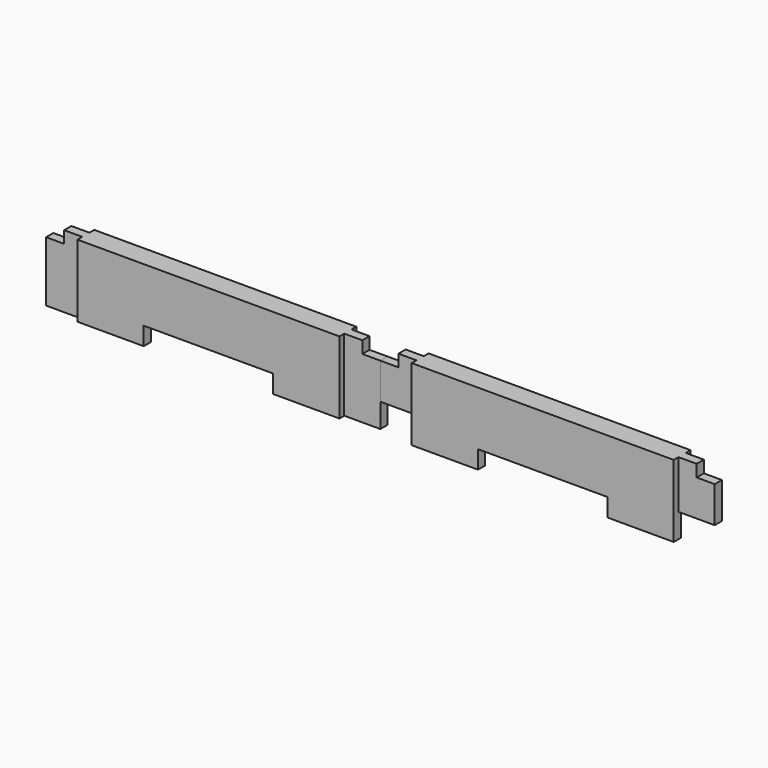
from build123d import *

# Parameters (mm, degrees)
F0_W      = 352.425
F0_H      = 76.2
F1_DEPTH  = 22.225
F2_W      = 38.1
F2_H      = 6.35
F3_DEPTH  = 76.2
F4_W      = 19.05
F4_H      = 12.7
F5_DEPTH  = 9.525
F6_W      = 136.525
F6_H      = 19.05
F7_DEPTH  = 22.225
F8_W      = 212.725
F8_H      = 12.7
F9_DEPTH  = 25.4
F11_W     = 38.1
F11_H     = 25.4
F12_DEPTH = 15.876


with BuildPart() as f1:
    # F0 (on Front) → F1 (new body)
    with BuildSketch(Plane.XZ):
        with Locations((176.2125, 38.1)):
            Rectangle(F0_W, F0_H)
    extrude(amount=F1_DEPTH)

    # F2 (on face) → F3 (cut, through all)
    with BuildSketch(Plane(origin=(0, 0, 0), x_dir=(1, 0, 0), z_dir=(0, 0, -1))):
        with Locations((19.05, 19.05)):
            Rectangle(F2_W, F2_H)
        with Locations((19.05, 3.175)):
            Rectangle(F2_W, F2_H)
        with Locations((333.375, 19.05)):
            Rectangle(F2_W, F2_H)
        with Locations((333.375, 3.175)):
            Rectangle(F2_W, F2_H)
    extrude(amount=-F3_DEPTH, mode=Mode.SUBTRACT)

    # F4 (on face) → F5 (cut, through all)
    with BuildSketch(Plane.XZ.offset(15.875)):
        with Locations((9.525, 69.85)):
            Rectangle(F4_W, F4_H)
        with Locations((342.9, 69.85)):
            Rectangle(F4_W, F4_H)
    extrude(amount=-F5_DEPTH, mode=Mode.SUBTRACT)

    # F6 (on face) → F7 (cut, through all)
    with BuildSketch(Plane.XZ.offset(22.225)):
        with Locations((176.2125, 9.525)):
            Rectangle(F6_W, F6_H)
    extrude(amount=-F7_DEPTH, mode=Mode.SUBTRACT)

    # F8 (on face) → F9 (cut)
    with BuildSketch(Plane(origin=(0, 0, 0), x_dir=(1, 0, 0), z_dir=(0, 0, -1))):
        Polygon((38.1, 6.35), (38.1, 0), (107.95, 0), (107.95, 12.7), (31.75, 12.7), (31.75, 6.35), align=None)
        with Locations((214.3125, 6.35)):
            Rectangle(F8_W, F8_H)
    extrude(amount=-F9_DEPTH, mode=Mode.SUBTRACT)


with BuildPart() as f10_1:
    # F10: instance of F1
    add(f1.part.mirror(Plane.YZ))


with BuildPart() as f1_1:
    add(f1.part)

    # F11 (on face) → F12 (cut, through all)
    with BuildSketch(Plane.XZ.offset(15.875)):
        with Locations((19.05, 12.7)):
            Rectangle(F11_W, F11_H)
        with Locations((333.375, 12.7)):
            Rectangle(F11_W, F11_H)
    extrude(amount=-F12_DEPTH, mode=Mode.SUBTRACT)


solid = Compound([f10_1.part, f1_1.part])
